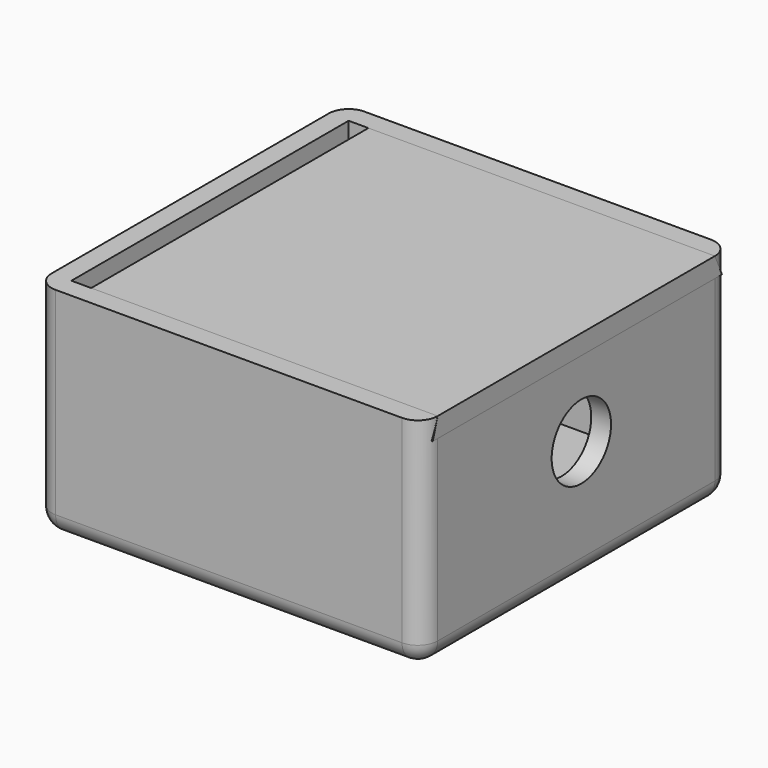
from build123d import *

# Parameters (mm, degrees)
EXTRUDE002_DEPTH = 35
SKETCH001_R      = 3.75
EXTRUDE001_DEPTH = 2.25
BOX_W            = 35
BOX_H            = 35
BOX_DEPTH        = 20
THICKNESS_T      = 2


with BuildPart() as extrude002:
    # Sketch002 (on Face12 of Thickness) → Extrude002 (new body)
    with BuildSketch(Plane(origin=(37, 0, -15), x_dir=(0, 1, 0), z_dir=(1, 0, 0))):
        Polygon((-0.633947, 33), (35.88865, 33), (35, 35), (0, 35), align=None)
    extrude(amount=-EXTRUDE002_DEPTH)


with BuildPart() as cover:
    # Clone base: copy of Extrude002
    add(extrude002.part)


with BuildPart() as hole:
    # Sketch001 → Extrude001 (new body, symmetric)
    with BuildSketch(Plane.YZ.offset(37)):
        with Locations((18.13824, 10.364708)):
            Circle(SKETCH001_R)
    extrude(amount=EXTRUDE001_DEPTH, both=True)


with BuildPart() as finalbox:
    # Box → Box (new body)
    with BuildSketch(Plane.XY):
        with Locations((17.5, 17.5)):
            Rectangle(BOX_W, BOX_H)
    extrude(amount=BOX_DEPTH)

    # Thickness
    thickness_openings = [finalbox.faces().sort_by_distance(p)[0] for p in [
        (17.5, 17.5, 20),
    ]]
    offset(amount=THICKNESS_T, openings=thickness_openings)

    # Cut: cut hole
    add(hole.part, mode=Mode.SUBTRACT)

    # Cut001: cut Extrude002
    add(extrude002.part, mode=Mode.SUBTRACT)


solid = Compound([cover.part, finalbox.part])
